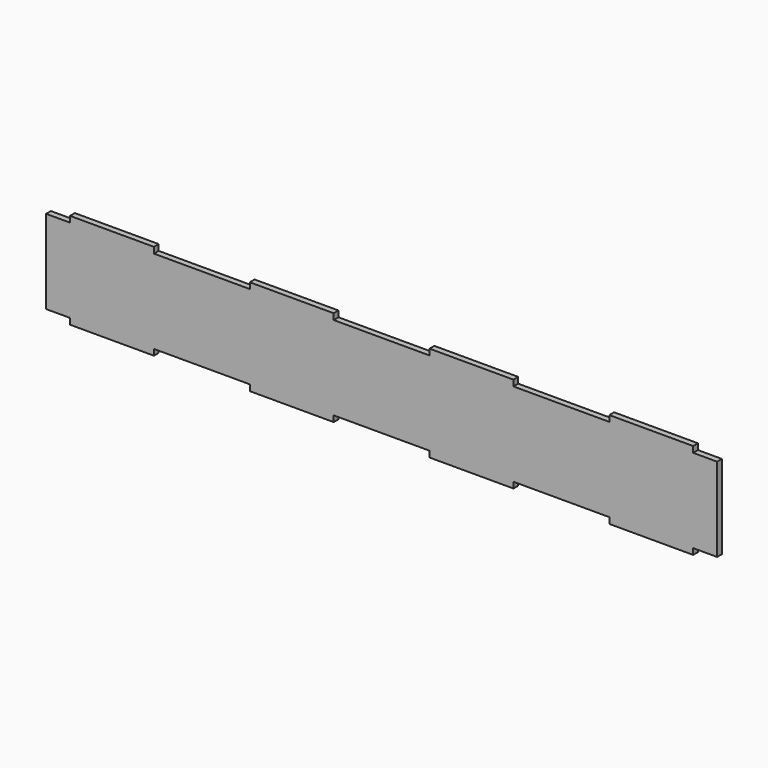
from build123d import *

# Parameters (mm, degrees)
F1_DEPTH = 3.175


with BuildPart() as f1:
    # F0 (on Front) → F1 (new body)
    with BuildSketch(Plane.XZ):
        Polygon((12.7, 3.175), (12.7, 0), (57.15, 0), (57.15, 3.175), (107.95, 3.175), (107.95, 0), (152.4, 0), (152.4, 3.175), (177.8, 3.175), (177.8, 25.4), (0, 25.4), (0, 3.175), align=None)
        Polygon((0, 47.625), (0, 25.4), (177.8, 25.4), (177.8, 47.625), (152.4, 47.625), (152.4, 50.8), (107.95, 50.8), (107.95, 47.625), (57.15, 47.625), (57.15, 50.8), (12.7, 50.8), (12.7, 47.625), align=None)
        Polygon((355.6, 25.4), (177.8, 25.4), (177.8, 3.175), (203.2, 3.175), (203.2, 0), (247.65, 0), (247.65, 3.175), (298.45, 3.175), (298.45, 0), (342.9, 0), (342.9, 3.175), (355.6, 3.175), align=None)
        Polygon((177.8, 47.625), (177.8, 25.4), (355.6, 25.4), (355.6, 47.625), (342.9, 47.625), (342.9, 50.8), (298.45, 50.8), (298.45, 47.625), (247.65, 47.625), (247.65, 50.8), (203.2, 50.8), (203.2, 47.625), align=None)
    extrude(amount=F1_DEPTH)


solid = f1.part
